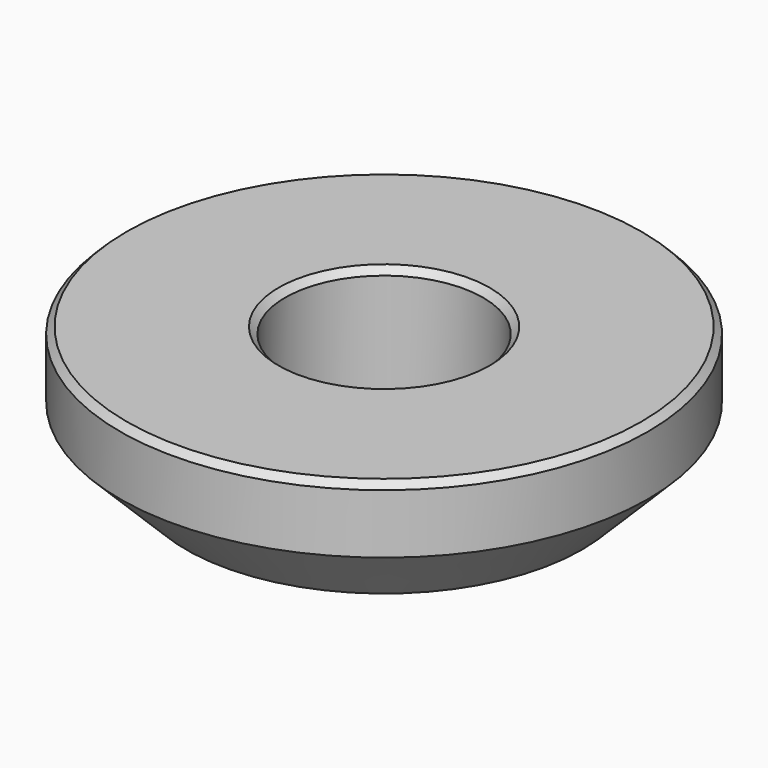
from build123d import *

# Parameters (mm, degrees)
F0_R     = 3
F0_R_2   = 1.6
F1_DEPTH = 0.5
F0_R_3   = 8
F2_DEPTH = 4
F3_SIZE  = 2
F4_SIZE  = 0.2


with BuildPart() as f1:
    # F0 (on Top) → F1 (new body)
    with BuildSketch(Plane.XY):
        Circle(F0_R)
        Circle(F0_R_2, mode=Mode.SUBTRACT)
    extrude(amount=F1_DEPTH)

    # F0 (on Top) → F2 (join)
    with BuildSketch(Plane.XY):
        Circle(F0_R_3)
        Circle(F0_R, mode=Mode.SUBTRACT)
    extrude(amount=F2_DEPTH)

    # F3
    f3_edges = [f1.edges().sort_by_distance(p)[0] for p in [
        (-8, 0, 0),
    ]]
    chamfer(f3_edges, length=F3_SIZE)

    # F4
    f4_edges = [f1.edges().sort_by_distance(p)[0] for p in [
        (-8, 0, 4),
        (-3, 0, 4),
        (-3, 0, 0.5),
    ]]
    chamfer(f4_edges, length=F4_SIZE)


solid = f1.part
